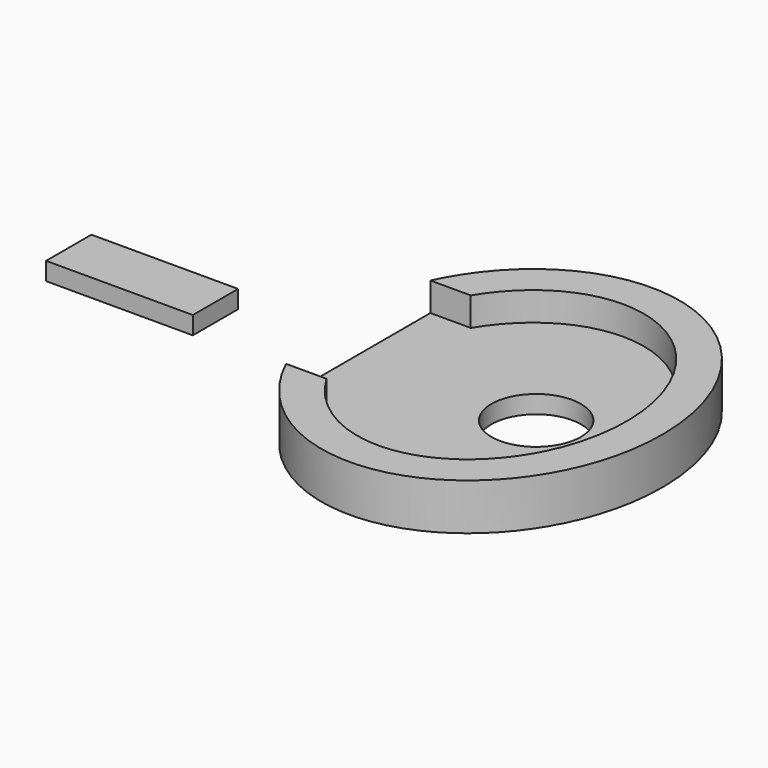
from build123d import *

# Parameters (mm, degrees)
F1_DEPTH = 2.6
F0_R     = 2.5
F2_DEPTH = 1
F0_W     = 8.1988287297
F0_H     = 3.1633935869


with BuildPart() as f1:
    # F0 (on Top) → F1 (new body)
    with BuildSketch(Plane.XY):
        with BuildLine():
            add(Edge.make_bspline(
                [(0, 8.55), (-3.582183896, 8.55), (-5.694244842, 5.0410927)],
                knots=[0, 0, 0, 0.9402309728, 0.9402309728, 0.9402309728], degree=2, weights=[1, 0.8915159801, 1]))
            add(Edge.make_bspline(
                [(7.05, 0), (7.05, 8.55), (0, 8.55)],
                knots=[4.7123889804, 4.7123889804, 4.7123889804, 6.2831853072, 6.2831853072, 6.2831853072], degree=2, weights=[1, 0.7071067812, 1]))
            add(Edge.make_bspline(
                [(-5.694244842, -5.0410927), (7.05, -26.2139541385), (7.05, 0)],
                knots=[2.2013616808, 2.2013616808, 2.2013616808, 4.7123889804, 4.7123889804, 4.7123889804], degree=2, weights=[1, 0.3100852271, 1]))
            Line((-5.694244842, -5.0410927), (-7.95, -5.0410927))
            add(Edge.make_bspline(
                [(-7.95, -5.0410927), (-2.7068599852, -16.2778670897), (5.7582825318, -8.1389335448), (14.2234250487, 0), (5.7582825318, 8.1389335448), (-2.7068599852, 16.2778670897), (-7.95, 5.0410927)],
                knots=[2.0689776322, 2.0689776322, 2.0689776322, 3.8312518643, 3.8312518643, 5.5935260964, 5.5935260964, 7.3558003286, 7.3558003286, 7.3558003286], degree=2, weights=[1, 0.6362743129, 1, 0.6362743129, 1, 0.6362743129, 1]))
            Line((-7.95, 5.0410927), (-5.694244842, 5.0410927))
        make_face()
    extrude(amount=F1_DEPTH)

    # F0 (on Top) → F2 (join)
    with BuildSketch(Plane.XY):
        with BuildLine():
            add(Edge.make_bspline(
                [(7.05, 0), (7.05, 8.55), (0, 8.55)],
                knots=[4.7123889804, 4.7123889804, 4.7123889804, 6.2831853072, 6.2831853072, 6.2831853072], degree=2, weights=[1, 0.7071067812, 1]))
            add(Edge.make_bspline(
                [(0, 8.55), (-3.582183896, 8.55), (-5.694244842, 5.0410927)],
                knots=[0, 0, 0, 0.9402309728, 0.9402309728, 0.9402309728], degree=2, weights=[1, 0.8915159801, 1]))
            add(Edge.make_bspline(
                [(-5.694244842, 5.0410927), (-7.05, 2.7886864993), (-7.05, 0)],
                knots=[0.9402309728, 0.9402309728, 0.9402309728, 1.5707963268, 1.5707963268, 1.5707963268], degree=2, weights=[1, 0.9507087629, 1]))
            add(Edge.make_bspline(
                [(-7.05, 0), (-7.05, -2.7886864993), (-5.694244842, -5.0410927)],
                knots=[1.5707963268, 1.5707963268, 1.5707963268, 2.2013616808, 2.2013616808, 2.2013616808], degree=2, weights=[1, 0.9507087629, 1]))
            add(Edge.make_bspline(
                [(-5.694244842, -5.0410927), (7.05, -26.2139541385), (7.05, 0)],
                knots=[2.2013616808, 2.2013616808, 2.2013616808, 4.7123889804, 4.7123889804, 4.7123889804], degree=2, weights=[1, 0.3100852271, 1]))
        make_face()
        with Locations((1.9930186681, 0)):
            Circle(F0_R, mode=Mode.SUBTRACT)
        with BuildLine():
            add(Edge.make_bspline(
                [(-7.05, 0), (-7.05, -2.7886864993), (-5.694244842, -5.0410927)],
                knots=[1.5707963268, 1.5707963268, 1.5707963268, 2.2013616808, 2.2013616808, 2.2013616808], degree=2, weights=[1, 0.9507087629, 1]))
            Line((-7.05, 0), (-7.95, 0))
            Line((-7.95, 0), (-7.95, -5.0410927))
            Line((-7.95, -5.0410927), (-5.694244842, -5.0410927))
        make_face()
        with BuildLine():
            add(Edge.make_bspline(
                [(-5.694244842, 5.0410927), (-7.05, 2.7886864993), (-7.05, 0)],
                knots=[0.9402309728, 0.9402309728, 0.9402309728, 1.5707963268, 1.5707963268, 1.5707963268], degree=2, weights=[1, 0.9507087629, 1]))
            Line((-5.694244842, 5.0410927), (-7.95, 5.0410927))
            Line((-7.95, 5.0410927), (-7.95, 0))
            Line((-7.95, 0), (-7.05, 0))
        make_face()
    extrude(amount=F2_DEPTH)


with BuildPart() as f2:
    # F0 (on Top) → F2, piece 2 (new body)
    with BuildSketch(Plane.XY):
        with Locations((-20.0240506394, 0)):
            Rectangle(F0_W, F0_H)
    extrude(amount=F2_DEPTH)


solid = Compound([f1.part, f2.part])
